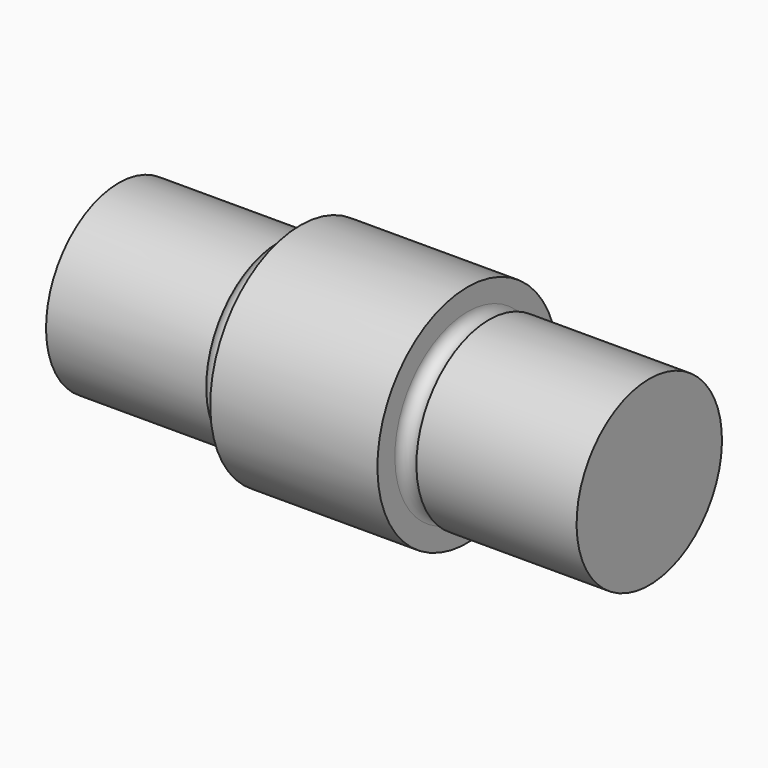
from build123d import *


with BuildPart() as f1:
    # F0 (on Front) → F1 (revolve)
    with BuildSketch(Plane.XZ):
        with BuildLine():
            Line((-13.523158, 2.5), (-17.930529, 2.5))
            Line((-17.930529, 2.5), (-17.930529, 0))
            Line((-17.930529, 0), (-3.332757, 0))
            Line((-3.332757, 0), (-3.332757, 2.5))
            Line((-3.332757, 2.5), (-7.740127, 2.5))
            ThreePointArc((-7.740127, 2.5), (-8.036442, 2.203685), (-8.332757, 2.5))
            Line((-8.332757, 2.5), (-8.332757, 3.1))
            Line((-8.332757, 3.1), (-12.932757, 3.1))
            Line((-12.932757, 3.1), (-12.932757, 2.5))
            ThreePointArc((-12.932757, 2.5), (-13.227957, 2.178017), (-13.523158, 2.5))
        make_face()
    revolve(axis=Axis((-10.631643, 0, 0), (-1, 0, 0)))


solid = f1.part
